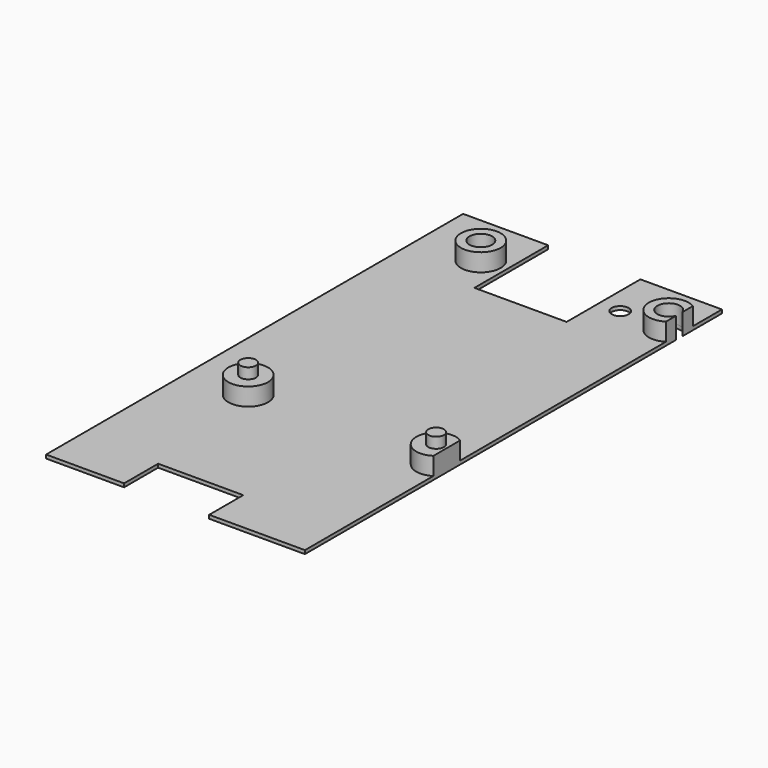
from build123d import *

# Parameters (mm, degrees)
PAD011_DEPTH       = 0.5
SKETCH009_R        = 1.6
SKETCH009_R_2      = 1.2
POCKET012014_DEPTH = 0.501
SKETCH010_R        = 2.8
SKETCH010_R_2      = 1.6
PAD012_DEPTH       = 2.5
SKETCH011_R        = 1.1
PAD013_DEPTH       = 1.5


with BuildPart() as part:
    # Sketch008 → Pad011 (new body)
    with BuildSketch(Plane.XY.offset(9)):
        Polygon((18.25, -36.75), (18.25, 36.75), (6.75, 36.75), (6.75, 23.75), (-6.25, 23.75), (-6.25, 36.75), (-18.25, 36.75), (-18.25, -36.75), (-7.25, -36.75), (-7.25, -30.75), (4.75, -30.75), (4.75, -36.75), align=None)
    extrude(amount=PAD011_DEPTH)

    # Sketch009 → Pocket012014 (cut, through all)
    with BuildSketch(Plane.XY.offset(9.5)):
        with Locations((-9.75, 29.25)):
            Circle(SKETCH009_R)
        with Locations((16.75, 29.25)):
            Circle(SKETCH009_R)
        with Locations((9.75, 29.45)):
            Circle(SKETCH009_R_2)
    extrude(amount=-POCKET012014_DEPTH, mode=Mode.SUBTRACT)

    # Sketch010 → Pad012 (new body)
    with BuildSketch(Plane.XY.offset(9.5)):
        with Locations((-9.75, 29.25)):
            Circle(SKETCH010_R)
        with Locations((-9.75, 29.25)):
            Circle(SKETCH010_R_2, mode=Mode.SUBTRACT)
        with Locations((-9.75, -11.75)):
            Circle(SKETCH010_R)
        with BuildLine():
            ThreePointArc((18.25, 29.806776), (15.15, 29.25), (18.25, 28.693224))
            Line((18.25, 28.693224), (18.25, 26.885682))
            ThreePointArc((18.25, 31.614318), (13.95, 29.25), (18.25, 26.885682))
            Line((18.25, 31.614318), (18.25, 29.806776))
        make_face()
        with BuildLine():
            ThreePointArc((18.25, -9.385682), (13.95, -11.75), (18.25, -14.114318))
            Line((18.25, -9.385682), (18.25, -14.114318))
        make_face()
    extrude(amount=PAD012_DEPTH)

    # Sketch011 → Pad013 (new body)
    with BuildSketch(Plane.XY.offset(12)):
        with Locations((-9.75, -11.75)):
            Circle(SKETCH011_R)
        with Locations((16.75, -11.75)):
            Circle(SKETCH011_R)
    extrude(amount=PAD013_DEPTH)


solid = part.part
